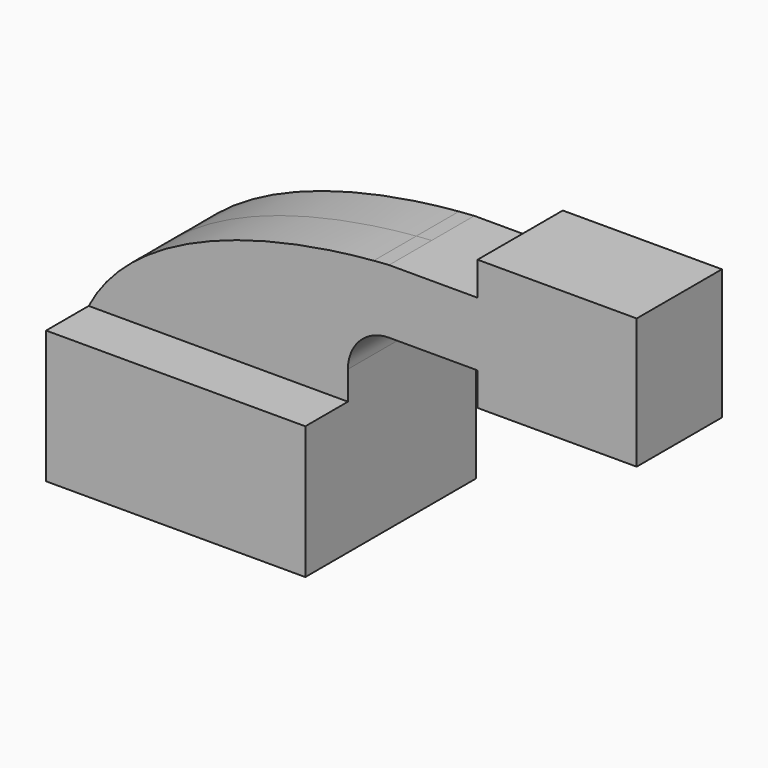
from build123d import *

# Parameters (mm, degrees)
F1_DEPTH = 12.5
F2_DEPTH = 25
F0_W     = 18.6651162803
F0_H     = 7.8595249355
F0_H_2   = 15
F0_H_3   = 7.7596530318
F3_DEPTH = 12.5


with BuildPart() as f1:
    # F0 (on Front) → F1 (new body, symmetric)
    with BuildSketch(Plane.XZ):
        with BuildLine():
            add(Edge.make_bspline(
                [(-60.8189068735, 31.1434771866), (-50.2214631846, 51.7385184087), (-18.8444322176, 60.1326987931), (6.0483806323, 62.2375197437)],
                knots=[0, 0, 0, 0, 73.5359127192, 73.5359127192, 73.5359127192, 73.5359127192], degree=3))
            Line((-60.8189068735, 31.1434771866), (-15, 31.1434771866))
            Line((-15, 31.1434771866), (-15, 37.8545261919))
            ThreePointArc((-15, 37.8545261919), (-9.0100386658, 53.9601517758), (6.0483806323, 62.2375197437))
        make_face()
        with BuildLine():
            Line((-15, 31.1434771866), (0, 31.1434771866))
            Line((0, 31.1434771866), (0, 37.8545261919))
            ThreePointArc((0, 37.8545261919), (2.8255814232, 44.6760831855), (9.6471384168, 47.5016646087))
            Line((9.6471384168, 47.5016646087), (30.4094552994, 47.5016646087))
            Line((30.4094552994, 47.5016646087), (30.4094552994, 62.5016646087))
            Line((30.4094552994, 62.5016646087), (9.6471384168, 62.5016646087))
            add(Edge.make_bspline(
                [(6.0483806323, 62.2375197437), (7.2645024211, 62.3403493691), (8.4651480287, 62.4281678914), (9.6471384168, 62.5016646087)],
                knots=[73.5359127192, 73.5359127192, 73.5359127192, 73.5359127192, 77.1284607473, 77.1284607473, 77.1284607473, 77.1284607473], degree=3))
            ThreePointArc((6.0483806323, 62.2375197437), (-9.0100386658, 53.9601517758), (-15, 37.8545261919))
            Line((-15, 37.8545261919), (-15, 31.1434771866))
        make_face()
    extrude(amount=F1_DEPTH, both=True)

    # F0 (on Front) → F2 (join, symmetric)
    with BuildSketch(Plane.XZ):
        Polygon((-60.8189068735, 0), (0, 0), (0, 31.1434771866), (-15, 31.1434771866), (-60.8189068735, 31.1434771866), align=None)
    extrude(amount=F2_DEPTH, both=True)

    # F0 (on Front) → F3 (join, symmetric)
    with BuildSketch(Plane.XZ):
        with Locations((39.7420134395, 66.4314270765)):
            Rectangle(F0_W, F0_H)
        with Locations((39.7420134395, 55.0016646087)):
            Rectangle(F0_W, F0_H_2)
        with Locations((39.7420134395, 43.6218380928)):
            Rectangle(F0_W, F0_H_3)
        Polygon((49.0745715797, 62.5016646087), (49.0745715797, 47.5016646087), (49.0745715797, 39.7420115769), (67.73968786, 39.7420115769), (67.73968786, 70.3611895442), (49.0745715797, 70.3611895442), align=None)
    extrude(amount=F3_DEPTH, both=True)


solid = f1.part
